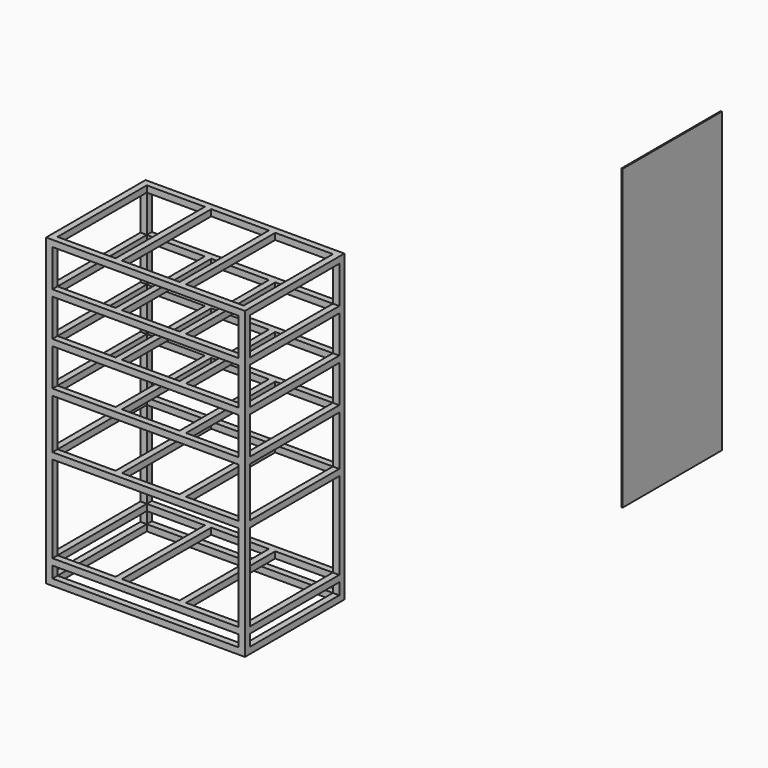
from build123d import *

# Parameters (mm, degrees)
F0_W      = 800
F0_H      = 500
F0_W_2    = 748.8
F0_H_2    = 448.8
F1_DEPTH  = 25.6
F2_W      = 25.6
F2_H      = 25.6
F3_DEPTH  = 1200
F4_W      = 25.6
F4_H      = 25.6
F5_DEPTH  = 748.8
F6_W      = 25.6
F6_H      = 25.6
F7_DEPTH  = 448.8
F8_W      = 25.6
F8_H      = 25.6
F9_DEPTH  = 448.8
F10_W     = 500
F10_H     = 1200
F11_DEPTH = 5


with BuildPart() as f1:
    # F0 (on Top) → F1 (new body)
    with BuildSketch(Plane.XY):
        with Locations((-392.007131, -224.110312)):
            Rectangle(F0_W, F0_H)
        with Locations((-392.007131, -224.110312)):
            Rectangle(F0_W_2, F0_H_2, mode=Mode.SUBTRACT)
    extrude(amount=F1_DEPTH)

    # F2 (on face) → F3 (join)
    with BuildSketch(Plane(origin=(0, 0, 0), x_dir=(1, 0, 0), z_dir=(0, 0, -1))):
        with Locations((-779.207131, 461.310312)):
            Rectangle(F2_W, F2_H)
        with Locations((-4.807131, 461.310312)):
            Rectangle(F2_W, F2_H)
        with Locations((-4.807131, -13.089688)):
            Rectangle(F2_W, F2_H)
        with Locations((-779.207131, -13.089688)):
            Rectangle(F2_W, F2_H)
    extrude(amount=F3_DEPTH)

    # F4 (on face) → F5 (join, through all)
    with BuildSketch(Plane.YZ.offset(-766.407131)):
        with Locations((-461.310312, -162.8)):
            Rectangle(F4_W, F4_H)
        with Locations((-461.310312, -338.4)):
            Rectangle(F4_W, F4_H)
        with Locations((-461.310312, -514)):
            Rectangle(F4_W, F4_H)
        with Locations((-461.310312, -739.6)):
            Rectangle(F4_W, F4_H)
        with Locations((-461.310312, -1187.2)):
            Rectangle(F4_W, F4_H)
        with Locations((-461.310312, -1115.2)):
            Rectangle(F4_W, F4_H)
        with Locations((13.089688, -162.8)):
            Rectangle(F4_W, F4_H)
        with Locations((13.089688, -338.4)):
            Rectangle(F4_W, F4_H)
        with Locations((13.089688, -514)):
            Rectangle(F4_W, F4_H)
        with Locations((13.089688, -739.6)):
            Rectangle(F4_W, F4_H)
        with Locations((13.089688, -1187.2)):
            Rectangle(F4_W, F4_H)
        with Locations((13.089688, -1115.2)):
            Rectangle(F4_W, F4_H)
    extrude(amount=F5_DEPTH)

    # F6 (on face) → F7 (join, through all)
    with BuildSketch(Plane.XZ.offset(-0.289688)):
        with Locations((-779.207131, -162.8)):
            Rectangle(F6_W, F6_H)
        with Locations((-779.207131, -338.4)):
            Rectangle(F6_W, F6_H)
        with Locations((-779.207131, -514)):
            Rectangle(F6_W, F6_H)
        with Locations((-779.207131, -739.6)):
            Rectangle(F6_W, F6_H)
        with Locations((-779.207131, -1187.2)):
            Rectangle(F6_W, F6_H)
        with Locations((-779.207131, -1115.2)):
            Rectangle(F6_W, F6_H)
        with Locations((-4.807131, -162.8)):
            Rectangle(F6_W, F6_H)
        with Locations((-4.807131, -338.4)):
            Rectangle(F6_W, F6_H)
        with Locations((-4.807131, -514)):
            Rectangle(F6_W, F6_H)
        with Locations((-4.807131, -739.6)):
            Rectangle(F6_W, F6_H)
        with Locations((-4.807131, -1187.2)):
            Rectangle(F6_W, F6_H)
        with Locations((-4.807131, -1115.2)):
            Rectangle(F6_W, F6_H)
    extrude(amount=F7_DEPTH)

    # F8 (on face) → F9 (join, through all)
    with BuildSketch(Plane(origin=(0, -448.510312, 0), x_dir=(-1, 0, 0), z_dir=(0, 1, 0))):
        with Locations((262.407131, 12.8)):
            Rectangle(F8_W, F8_H)
        with Locations((520.007131, 12.8)):
            Rectangle(F8_W, F8_H)
        with Locations((262.407131, -162.8)):
            Rectangle(F8_W, F8_H)
        with Locations((520.007131, -162.8)):
            Rectangle(F8_W, F8_H)
        with Locations((262.407131, -338.4)):
            Rectangle(F8_W, F8_H)
        with Locations((520.007131, -338.4)):
            Rectangle(F8_W, F8_H)
        with Locations((262.407131, -514)):
            Rectangle(F8_W, F8_H)
        with Locations((520.007131, -514)):
            Rectangle(F8_W, F8_H)
        with Locations((262.407131, -739.6)):
            Rectangle(F8_W, F8_H)
        with Locations((520.007131, -739.6)):
            Rectangle(F8_W, F8_H)
        with Locations((262.407131, -1115.2)):
            Rectangle(F8_W, F8_H)
        with Locations((520.007131, -1115.2)):
            Rectangle(F8_W, F8_H)
    extrude(amount=F9_DEPTH)


with BuildPart() as f11:
    # F10 (on Right) → F11 (new body)
    with BuildSketch(Plane.YZ):
        with Locations((1678.344158, -845.871907)):
            Rectangle(F10_W, F10_H)
    extrude(amount=F11_DEPTH)


solid = Compound([f1.part, f11.part])
